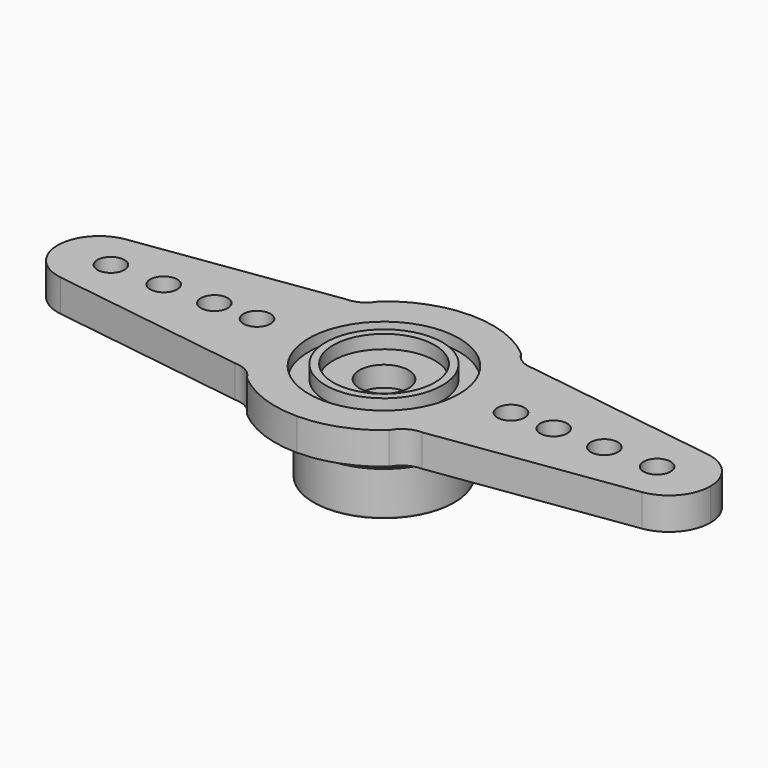
from build123d import *

# Parameters (mm, degrees)
PAD_DEPTH       = 1.9
SKETCH001_R     = 4.45
POCKET_DEPTH    = 0.7
SKETCH002_R     = 3.45
PAD001_DEPTH    = 0.8
SKETCH003_R     = 3
POCKET001_DEPTH = 0.8
SKETCH004_R     = 4.9
PAD002_DEPTH    = 1
SKETCH005_R     = 4.185
PAD003_DEPTH    = 2.9
SKETCH006_R     = 2.95
POCKET002_DEPTH = 3.9
SKETCH007_R     = 1.45
POCKET003_DEPTH = 2.001
CHAMFER_SIZE    = 0.3
CHAMFER001_SIZE = 0.3
CHAMFER002_SIZE = 0.3
SKETCH008_R     = 0.8
POCKET004_DEPTH = 88.048918
FILLET_R        = 0.1
CHAMFER003_SIZE = 0.1


with BuildPart() as horn_top_left_quarter:
    # Sketch → Pad (new body)
    with BuildSketch(Plane.XY):
        with BuildLine():
            ThreePointArc((0, 6.45), (-2.239283, 6.048811), (-4.2, 4.895151))
            ThreePointArc((-5.52408, 4.1), (-4.751834, 4.314062), (-4.2, 4.895151))
            Line((-17.197947, 2.425167), (-5.52408, 4.1))
            ThreePointArc((-17.197947, 2.425167), (-18.701347, 1.604685), (-19.3, 0))
            Line((-19.3, 0), (0, 0))
            Line((0, 6.45), (0, 0))
        make_face()
    extrude(amount=PAD_DEPTH)


with BuildPart() as horn_top_half:
    # Part__Mirroring: instance of horn-top-left-quarter
    add(horn_top_left_quarter.part.mirror(Plane(origin=(0, 0, 0), x_dir=(0, -1, 0), z_dir=(1, 0, 0))))

    # Fusion: union horn-top-left-quarter
    add(horn_top_left_quarter.part)


with BuildPart() as horn_final001:
    # Part__Mirroring001: instance of horn-top-half
    add(horn_top_half.part.mirror(Plane(origin=(0, 0, 0), x_dir=(1, 0, 0), z_dir=(0, 1, 0))))

    # Fusion001: union horn-top-half
    add(horn_top_half.part)

    # Sketch001 → Pocket (cut)
    with BuildSketch(Plane.XY.offset(1.9)):
        with Locations((0.021849, -0.030682)):
            Circle(SKETCH001_R)
    extrude(amount=-POCKET_DEPTH, mode=Mode.SUBTRACT)

    # Sketch002 → Pad001 (new body)
    with BuildSketch(Plane.XY.offset(1.2)):
        Circle(SKETCH002_R)
    extrude(amount=PAD001_DEPTH)

    # Sketch003 → Pocket001 (cut)
    with BuildSketch(Plane.XY.offset(2)):
        Circle(SKETCH003_R)
    extrude(amount=-POCKET001_DEPTH, mode=Mode.SUBTRACT)

    # Sketch004 → Pad002 (new body)
    with BuildSketch(Plane(origin=(0, 0, 0), x_dir=(1, 0, 0), z_dir=(0, 0, -1))):
        Circle(SKETCH004_R)
    extrude(amount=PAD002_DEPTH)

    # Sketch005 → Pad003 (new body)
    with BuildSketch(Plane(origin=(0, 0, -1), x_dir=(1, 0, 0), z_dir=(0, 0, -1))):
        Circle(SKETCH005_R)
    extrude(amount=PAD003_DEPTH)

    # Sketch006 → Pocket002 (cut)
    with BuildSketch(Plane(origin=(0, 0, -3.9), x_dir=(1, 0, 0), z_dir=(0, 0, -1))):
        Circle(SKETCH006_R)
    extrude(amount=-POCKET002_DEPTH, mode=Mode.SUBTRACT)

    # Sketch007 → Pocket003 (cut, through all)
    with BuildSketch(Plane(origin=(0, 0, 0), x_dir=(1, 0, 0), z_dir=(0, 0, -1))):
        Circle(SKETCH007_R)
    extrude(amount=-POCKET003_DEPTH, mode=Mode.SUBTRACT)

    # Chamfer
    chamfer_edges = [horn_final001.edges().sort_by_distance(p)[0] for p in [
        (-4.9, 0, 0),
    ]]
    chamfer(chamfer_edges, length=CHAMFER_SIZE)

    # Chamfer001
    chamfer001_edges = [horn_final001.edges().sort_by_distance(p)[0] for p in [
        (-4.185, 0, -1),
    ]]
    chamfer(chamfer001_edges, length=CHAMFER001_SIZE)

    # Chamfer002
    chamfer002_edges = [horn_final001.edges().sort_by_distance(p)[0] for p in [
        (-4.9, 0, -1),
    ]]
    chamfer(chamfer002_edges, length=CHAMFER002_SIZE)

    # Sketch008 → Pocket004 (cut, through all)
    with BuildSketch(Plane.XY.offset(1.9)):
        with Locations((-16.15, 0)):
            Circle(SKETCH008_R)
        with Locations((-13.03, 0)):
            Circle(SKETCH008_R)
        with Locations((-10.035, 0)):
            Circle(SKETCH008_R)
        with Locations((-7.51, 0)):
            Circle(SKETCH008_R)
    pocket004 = extrude(amount=-POCKET004_DEPTH, mode=Mode.SUBTRACT)

    # Mirrored: Pocket004 across Sketch008 V_Axis
    add(pocket004.mirror(Plane(origin=(0, 0, 1.9), x_dir=(0, 0, 1), z_dir=(1, 0, 0))), mode=Mode.SUBTRACT)

    # Fillet
    fillet_edges = [horn_final001.edges().sort_by_distance(p)[0] for p in [
        (-4.185, 0, -3.9),
    ]]
    fillet(fillet_edges, radius=FILLET_R)

    # Chamfer003
    chamfer003_edges = [horn_final001.edges().sort_by_distance(p)[0] for p in [
        (-2.95, 0, -3.9),
    ]]
    chamfer(chamfer003_edges, length=CHAMFER003_SIZE)


solid = horn_final001.part
